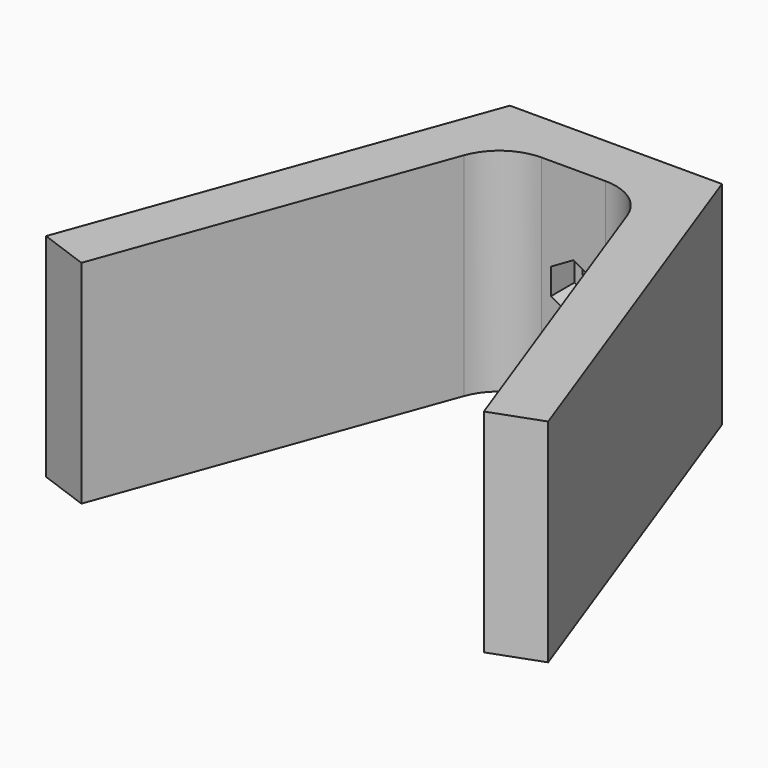
from build123d import *

# Parameters (mm, degrees)
F1_DEPTH = 40
F3_R     = 2.75
F4_DEPTH = 10
F5_R     = 2.75
F6_DEPTH = 5.5
F7_R     = 10


with BuildPart() as f1:
    # F0 (on Top) → F1 (new body)
    with BuildSketch(Plane.XY):
        Polygon((0, 0), (-20, 0), (-20, -10), (-12.9979246179, -10), (0, -10), align=None)
        Polygon((-20, -10), (-20, 0), (-47.3616114661, -75.1754096629), (-37.9646852582, -78.5956110961), (-12.9979246179, -10), align=None)
    extrude(amount=F1_DEPTH)

    # F2: F1 across plane


with BuildPart() as f1_1:
    add(f1.part)
    add(f1.part.mirror(Plane.YZ))

    # F3 (on face) → F4 (cut, through all)
    with BuildSketch(Plane.XZ.offset(10)):
        with Locations((0, 20)):
            Circle(F3_R)
    extrude(amount=-F4_DEPTH, mode=Mode.SUBTRACT)

    # F5 (on face) → F6 (cut)
    with BuildSketch(Plane.XZ.offset(10)):
        Polygon((4.25, 22.4537386441), (0, 24.9074772881), (-4.25, 22.4537386441), (-4.25, 17.5462613559), (0, 15.0925227119), (4.25, 17.5462613559), align=None)
        with Locations((0, 20)):
            Circle(F5_R, mode=Mode.SUBTRACT)
    extrude(amount=-F6_DEPTH, mode=Mode.SUBTRACT)

    # F7
    f7_edges = [f1_1.edges().sort_by_distance(p)[0] for p in [
        (-12.997925, -10, 20),
        (12.997925, -10, 20),
    ]]
    fillet(f7_edges, radius=F7_R)


solid = f1_1.part
